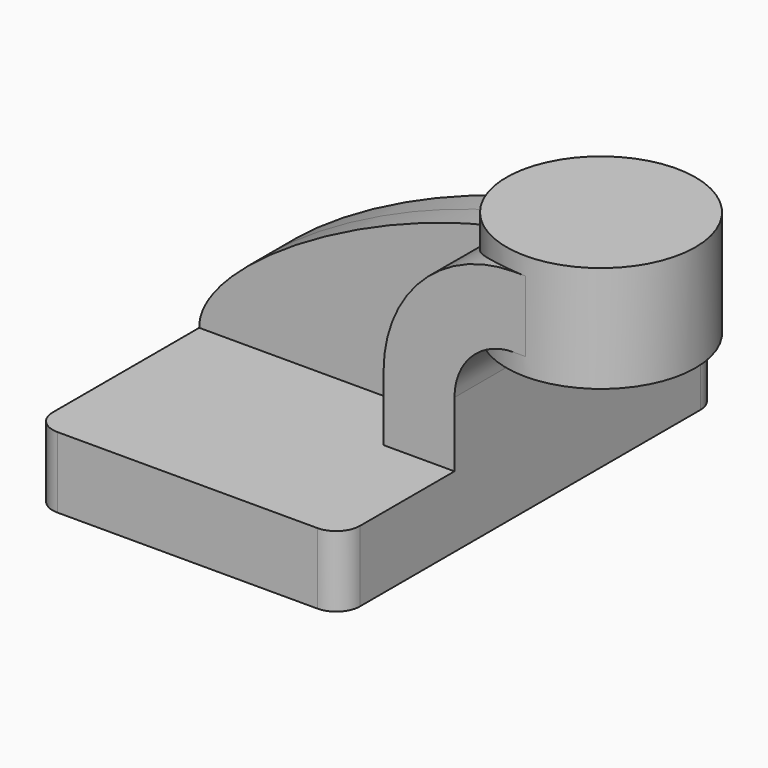
from build123d import *

# Parameters (mm, degrees)
F1_DEPTH = 63.5
F2_DEPTH = 25.4
F3_DEPTH = 7.9375
F5_R     = 6.35


with BuildPart() as f1:
    # F0 (on Front) → F1 (new body, symmetric)
    with BuildSketch(Plane.XZ):
        Polygon((22.225, 9.525), (-41.275, 9.525), (-41.275, -9.525), (41.275, -9.525), (41.275, 9.525), align=None)
    extrude(amount=F1_DEPTH, both=True)

    # F0 (on Front) → F2 (join, symmetric)
    with BuildSketch(Plane.XZ):
        with BuildLine():
            Line((22.225, 27.0002), (22.225, 9.525))
            Line((22.225, 9.525), (41.275, 9.525))
            Line((41.275, 9.525), (41.275, 27.0002))
            ThreePointArc((41.275, 27.0002), (45.92468, 38.22552), (57.15, 42.8752))
            Line((57.15, 42.8752), (60.325, 42.8752))
            Line((60.325, 42.8752), (60.325, 61.9252))
            Line((60.325, 61.9252), (57.15, 61.9252))
            add(Edge.make_bspline(
                [(53.120623, 61.691982), (54.477951, 61.800732), (55.821866, 61.878972), (57.15, 61.9252)],
                knots=[107.944302, 107.944302, 107.944302, 107.944302, 111.504536, 111.504536, 111.504536, 111.504536], degree=3))
            ThreePointArc((53.120623, 61.691982), (31.068574, 50.227658), (22.225, 27.0002))
        make_face()
    extrude(amount=F2_DEPTH, both=True)

    # F0 (on Front) → F3 (join, symmetric)
    with BuildSketch(Plane.XZ):
        with BuildLine():
            add(Edge.make_bspline(
                [(-41.275, 9.525), (-41.51543, 27.050941), (11.967215, 58.394754), (53.120623, 61.691982)],
                knots=[0, 0, 0, 0, 107.944302, 107.944302, 107.944302, 107.944302], degree=3))
            Line((-41.275, 9.525), (22.225, 9.525))
            Line((22.225, 9.525), (22.225, 27.0002))
            ThreePointArc((22.225, 27.0002), (31.068574, 50.227658), (53.120623, 61.691982))
        make_face()
    extrude(amount=F3_DEPTH, both=True)

    # F0 (on Front) → F4 (revolve)
    with BuildSketch(Plane.XZ):
        Polygon((60.325, 66.675), (60.325, 61.9252), (65.104299, 61.9252), (85.725, 61.9252), (85.725, 66.675), align=None)
        Polygon((65.104299, 61.9252), (60.325, 61.9252), (60.325, 42.8752), (65.104299, 42.8752), (85.725, 42.8752), (85.725, 61.9252), align=None)
        Polygon((65.104299, 42.8752), (60.325, 42.8752), (60.325, 38.1), (85.725, 38.1), (85.725, 42.8752), align=None)
    revolve(axis=Axis((60.325, 0, 52.3875), (0, 0, -1)))

    # F5
    f5_edges = [f1.edges().sort_by_distance(p)[0] for p in [
        (41.275, -63.5, 0),
        (-41.275, -63.5, 0),
        (41.275, 63.5, 0),
        (-41.275, 63.5, 0),
    ]]
    fillet(f5_edges, radius=F5_R)


solid = f1.part
